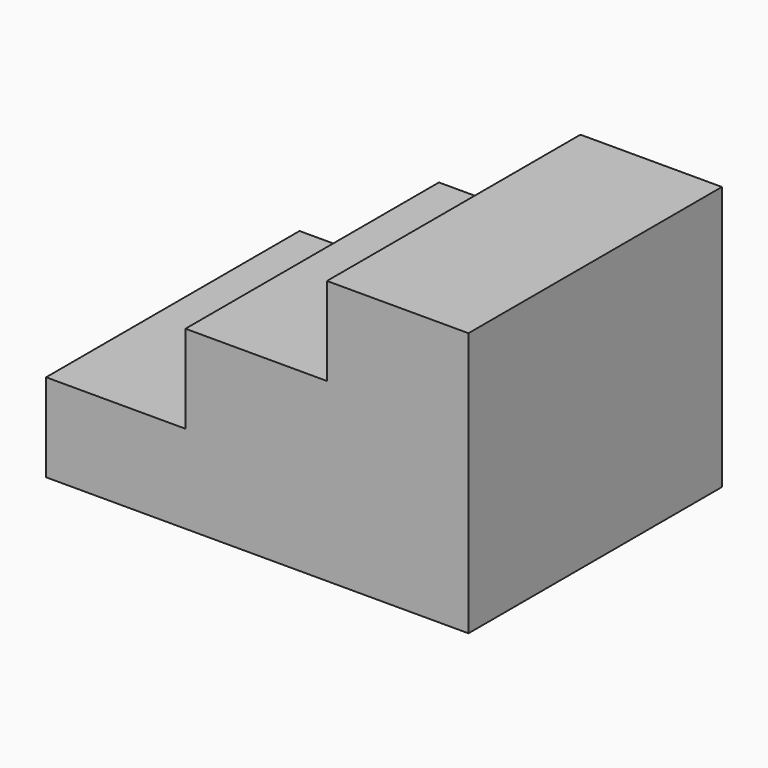
from build123d import *

# Parameters (mm, degrees)
F0_W     = 34.036
F0_H     = 21.1836
F1_DEPTH = 38.1


with BuildPart() as f1:
    # F0 (on Front) → F1 (new body, symmetric)
    with BuildSketch(Plane.XZ):
        with Locations((33.782, 42.3672)):
            Rectangle(F0_W, F0_H)
        Polygon((-17.272, 10.5918), (50.8, 10.5918), (50.8, 31.7754), (16.764, 31.7754), (-17.272, 31.7754), align=None)
        Polygon((50.8, -10.5918), (50.8, 10.5918), (-17.272, 10.5918), (-50.8, 10.5918), (-50.8, -10.5918), align=None)
    extrude(amount=F1_DEPTH, both=True)


solid = f1.part
